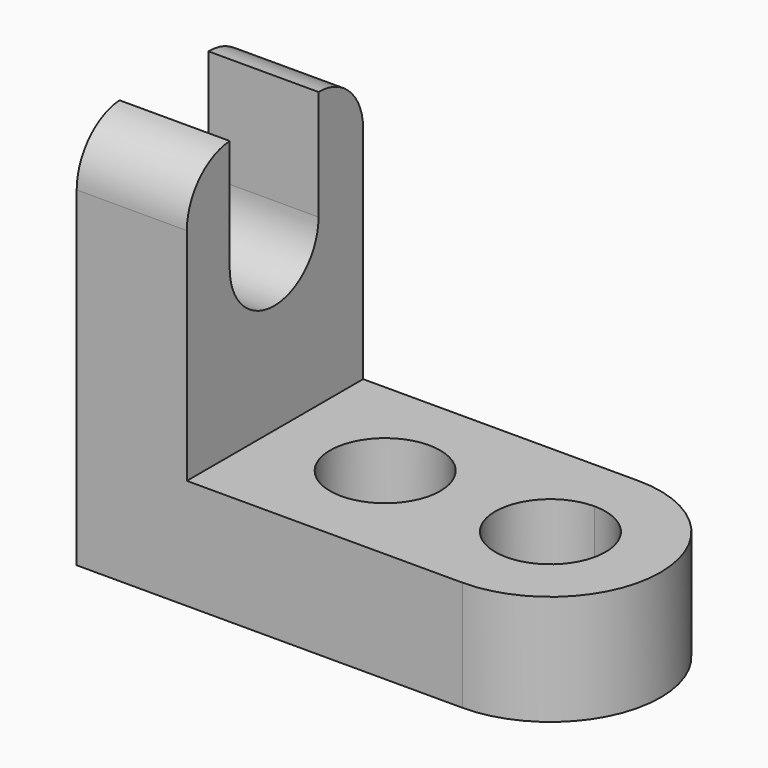
from build123d import *

# Parameters (mm, degrees)
F0_R     = 6.35
F1_DEPTH = 12.7
F3_DEPTH = 12.7


with BuildPart() as f1:
    # F0 (on Top) → F1 (new body)
    with BuildSketch(Plane.XY):
        with BuildLine():
            Line((0, 25.4), (0, 0))
            Line((0, 0), (44.45, 0))
            Line((44.45, 0), (44.45, 6.35))
            ThreePointArc((44.45, 6.35), (38.1, 12.7), (44.45, 19.05))
            Line((44.45, 19.05), (44.45, 25.4))
            Line((44.45, 25.4), (0, 25.4))
        make_face()
        with Locations((25.4, 12.7)):
            Circle(F0_R, mode=Mode.SUBTRACT)
        with BuildLine():
            Line((44.45, 6.35), (44.45, 0))
            ThreePointArc((44.45, 0), (57.15, 12.7), (44.45, 25.4))
            Line((44.45, 25.4), (44.45, 19.05))
            ThreePointArc((44.45, 19.05), (48.940128, 17.190128), (50.8, 12.7))
            ThreePointArc((50.8, 12.7), (48.940128, 8.209872), (44.45, 6.35))
        make_face()
    extrude(amount=F1_DEPTH)

    # F2 (on face) → F3 (join)
    with BuildSketch(Plane(origin=(0, 0, 0), x_dir=(0, -1, 0), z_dir=(-1, 0, 0))):
        with BuildLine():
            Line((-25.4, 38.1), (-25.4, 12.7))
            Line((-25.4, 12.7), (0, 12.7))
            Line((0, 12.7), (0, 38.1))
            Line((0, 38.1), (-6.17045, 38.328535))
            Line((-6.17045, 38.328535), (-6.17045, 31.75))
            ThreePointArc((-6.17045, 31.75), (-12.572816, 25.347634), (-18.975182, 31.75))
            Line((-18.975182, 31.75), (-18.975182, 38.1))
            Line((-18.975182, 38.1), (-25.4, 38.1))
        make_face()
        with BuildLine():
            Line((-6.17045, 38.328535), (0, 38.1))
            ThreePointArc((0, 38.1), (-1.783554, 42.612933), (-6.17045, 44.687246))
            Line((-6.17045, 44.687246), (-6.17045, 38.328535))
        make_face()
        with BuildLine():
            ThreePointArc((-18.975182, 44.45), (-23.513625, 42.616658), (-25.4, 38.1))
            Line((-25.4, 38.1), (-18.975182, 38.1))
            Line((-18.975182, 38.1), (-18.975182, 44.45))
        make_face()
    extrude(amount=-F3_DEPTH)


solid = f1.part
